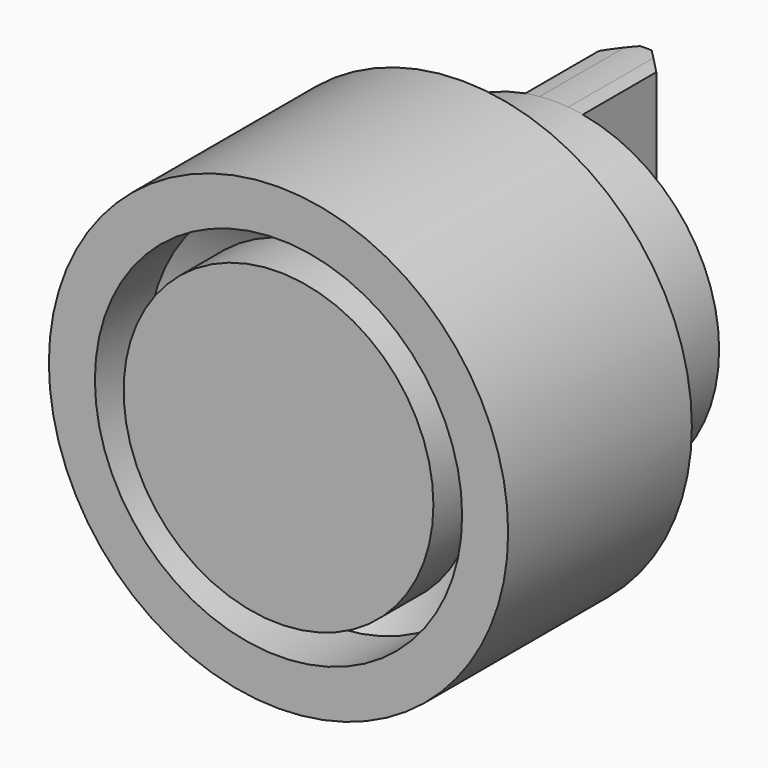
from build123d import *

# Parameters (mm, degrees)
F3_DEPTH = 6.35
F4_SIZE  = 1.27


with BuildPart() as f1:
    # F0 (on Top) → F1 (revolve)
    with BuildSketch(Plane.XY):
        Polygon((10.1543589924, 3.6681730227), (10.1543589924, 0), (12.7, 0), (12.7, 12.7), (7.14375, 12.7), (7.14375, 6.6787820151), align=None)
    revolve(axis=Axis((0, 6.35, 0), (0, 1, 0)))


with BuildPart() as f1b:
    # F0 (on Top) → F1, piece 2 (revolve)
    with BuildSketch(Plane.XY):
        Polygon((0, 12.7), (0, 0), (8.5668589924, 0), (8.5668589924, 3.0106089924), (5.55625, 6.0212179849), (5.55625, 12.7), align=None)
        Polygon((0, 19.0500002354), (0, 12.7), (5.55625, 12.7), (5.55625, 13.49375), (7.14375, 13.49375), (9.128125, 13.49375), (9.128125, 19.0500002354), align=None)
    revolve(axis=Axis((0, 6.35, 0), (0, 1, 0)))

    # F2 (on face) → F3 (join)
    with BuildSketch(Plane(origin=(0, 19.0500002354, 0), x_dir=(-1, 0, 0), z_dir=(0, 1, 0))):
        with BuildLine():
            ThreePointArc((1.5875, 8.9890216245), (1.1917715239, 9.0499915276), (0.79375, 9.0935486447))
            Line((0.79375, 9.0935486447), (0.79375, -9.0935486447))
            ThreePointArc((0.79375, -9.0935486447), (1.1917715239, -9.0499915276), (1.5875, -8.9890216245))
            Line((1.5875, -8.9890216245), (1.5875, 8.9890216245))
        make_face()
        with BuildLine():
            Line((-0.79375, -9.0935486447), (-0.79375, 9.0935486447))
            ThreePointArc((-0.79375, 9.0935486447), (-1.1917715239, 9.0499915276), (-1.5875, 8.9890216245))
            Line((-1.5875, 8.9890216245), (-1.5875, -8.9890216245))
            ThreePointArc((-1.5875, -8.9890216245), (-1.1917715239, -9.0499915276), (-0.79375, -9.0935486447))
        make_face()
        with BuildLine():
            ThreePointArc((0.79375, 9.0935486447), (0, 9.128125), (-0.79375, 9.0935486447))
            Line((-0.79375, 9.0935486447), (-0.79375, -9.0935486447))
            ThreePointArc((-0.79375, -9.0935486447), (0, -9.128125), (0.79375, -9.0935486447))
            Line((0.79375, -9.0935486447), (0.79375, 9.0935486447))
        make_face()
    extrude(amount=F3_DEPTH)

    # F4
    f4_edges = [f1b.edges().sort_by_distance(p)[0] for p in [
        (-1.5875, 25.4, 0),
        (1.5875, 25.4, 0),
    ]]
    chamfer(f4_edges, length=F4_SIZE)


solid = Compound([f1.part, f1b.part])
